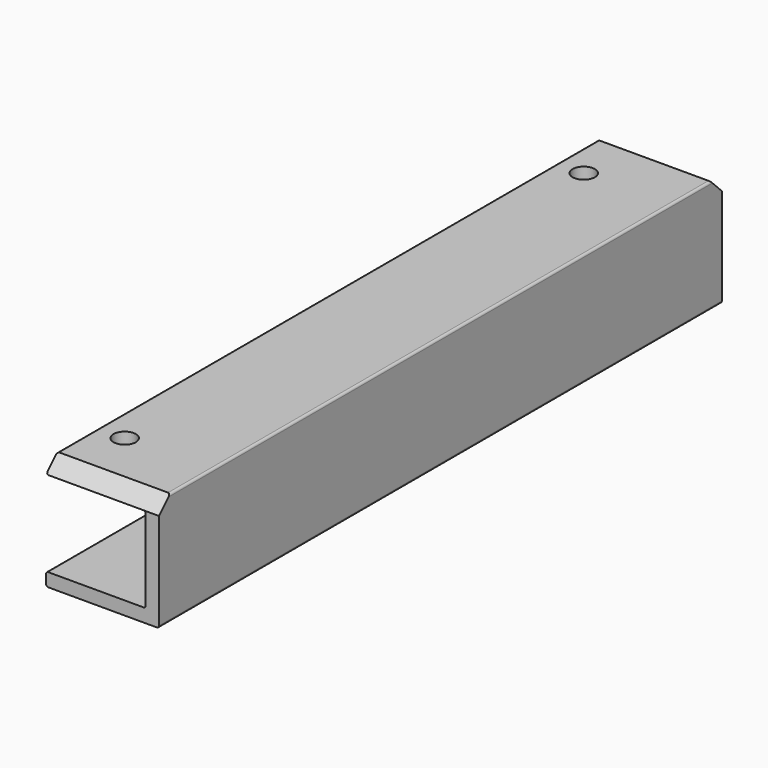
from build123d import *

# Parameters (mm, degrees)
F1_DEPTH = 158.26371
F2_R     = 2.5
F3_DEPTH = 5
F4_R     = 0.5
F6_DEPTH = 25.401


with BuildPart() as f1:
    # F0 (on Front) → F1 (new body)
    with BuildSketch(Plane.XZ):
        Polygon((0, 3), (0, 0), (25.4, 0), (25.4, 25.4), (0, 25.4), (0, 22.225), (22.4, 22.225), (22.4, 3), align=None)
    extrude(amount=F1_DEPTH)

    # F2 (on face) → F3 (cut)
    with BuildSketch(Plane.XY.offset(25.4)):
        with Locations((6, -14.6)):
            Circle(F2_R)
        with Locations((6, -143.66371)):
            Circle(F2_R)
        with Locations((6, -243.66371)):
            Circle(F2_R)
        with Locations((6, -343.66371)):
            Circle(F2_R)
        with Locations((6, -443.66371)):
            Circle(F2_R)
    extrude(amount=-F3_DEPTH, mode=Mode.SUBTRACT)

    # F4
    f4_edges = [f1.edges().sort_by_distance(p)[0] for p in [
        (0, -79.131855, 25.4),
        (0, -79.131855, 22.225),
        (25.4, -79.131855, 25.4),
        (22.4, -79.131855, 3),
        (0, -79.131855, 3),
        (0, -79.131855, 0),
        (22.4, -79.131855, 22.225),
        (25.4, -79.131855, 0),
    ]]
    fillet(f4_edges, radius=F4_R)

    # F5 (on face) → F6 (cut, through all)
    with BuildSketch(Plane(origin=(0, 0, 0), x_dir=(0, -1, 0), z_dir=(-1, 0, 0))):
        Polygon((0, 25.4), (0, 22.225), (3.175, 25.4), align=None)
        Polygon((155.08871, 25.4), (158.26371, 22.225), (158.26371, 25.4), align=None)
    extrude(amount=-F6_DEPTH, mode=Mode.SUBTRACT)


solid = f1.part
